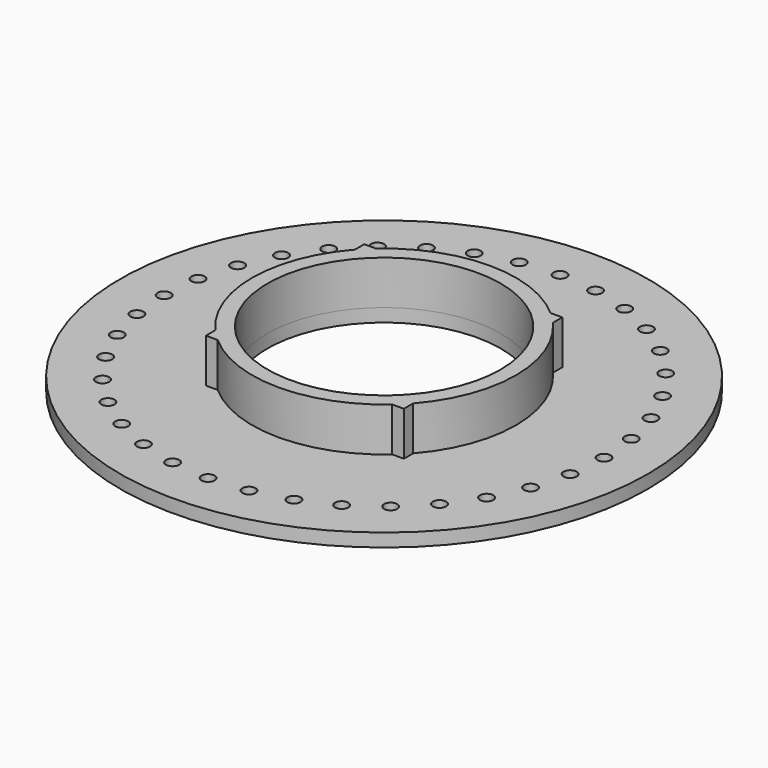
from build123d import *

# Parameters (mm, degrees)
F0_R     = 60
F0_R_2   = 1.5
F1_DEPTH = 3
F2_R     = 26.5
F3_DEPTH = 25
F4_R     = 30
F4_R_2   = 26.5
F5_DEPTH = 10
F7_DEPTH = 10


with BuildPart() as f1:
    # F0 (on Top) → F1 (new body)
    with BuildSketch(Plane.XY):
        Circle(F0_R)
        with Locations((-32.1393804843, -38.3022221559)):
            Circle(F0_R_2, mode=Mode.SUBTRACT)
        with Locations((-38.3022221559, -32.1393804843)):
            Circle(F0_R_2, mode=Mode.SUBTRACT)
        with Locations((-17.1010071663, -46.9846310393)):
            Circle(F0_R_2, mode=Mode.SUBTRACT)
        with Locations((-8.6824088833, -49.2403876506)):
            Circle(F0_R_2, mode=Mode.SUBTRACT)
        with Locations((-25, -43.3012701892)):
            Circle(F0_R_2, mode=Mode.SUBTRACT)
        with Locations((-46.9846310393, -17.1010071663)):
            Circle(F0_R_2, mode=Mode.SUBTRACT)
        with Locations((-43.3012701892, -25)):
            Circle(F0_R_2, mode=Mode.SUBTRACT)
        with Locations((-49.2403876506, -8.6824088833)):
            Circle(F0_R_2, mode=Mode.SUBTRACT)
        with Locations((0, -50)):
            Circle(F0_R_2, mode=Mode.SUBTRACT)
        with Locations((8.6824088833, -49.2403876506)):
            Circle(F0_R_2, mode=Mode.SUBTRACT)
        with Locations((17.1010071663, -46.9846310393)):
            Circle(F0_R_2, mode=Mode.SUBTRACT)
        with Locations((25, -43.3012701892)):
            Circle(F0_R_2, mode=Mode.SUBTRACT)
        with Locations((32.1393804843, -38.3022221559)):
            Circle(F0_R_2, mode=Mode.SUBTRACT)
        with Locations((38.3022221559, -32.1393804843)):
            Circle(F0_R_2, mode=Mode.SUBTRACT)
        with Locations((43.3012701892, -25)):
            Circle(F0_R_2, mode=Mode.SUBTRACT)
        with Locations((46.9846310393, -17.1010071663)):
            Circle(F0_R_2, mode=Mode.SUBTRACT)
        with Locations((49.2403876506, -8.6824088833)):
            Circle(F0_R_2, mode=Mode.SUBTRACT)
        with Locations((-50, 0)):
            Circle(F0_R_2, mode=Mode.SUBTRACT)
        with Locations((-49.2403876506, 8.6824088833)):
            Circle(F0_R_2, mode=Mode.SUBTRACT)
        with Locations((-46.9846310393, 17.1010071663)):
            Circle(F0_R_2, mode=Mode.SUBTRACT)
        with Locations((-43.3012701892, 25)):
            Circle(F0_R_2, mode=Mode.SUBTRACT)
        with Locations((-38.3022221559, 32.1393804843)):
            Circle(F0_R_2, mode=Mode.SUBTRACT)
        with Locations((-32.1393804843, 38.3022221559)):
            Circle(F0_R_2, mode=Mode.SUBTRACT)
        with Locations((-25, 43.3012701892)):
            Circle(F0_R_2, mode=Mode.SUBTRACT)
        with Locations((-17.1010071663, 46.9846310393)):
            Circle(F0_R_2, mode=Mode.SUBTRACT)
        with Locations((-8.6824088833, 49.2403876506)):
            Circle(F0_R_2, mode=Mode.SUBTRACT)
        with Locations((50, 0)):
            Circle(F0_R_2, mode=Mode.SUBTRACT)
        with Locations((49.2403876506, 8.6824088833)):
            Circle(F0_R_2, mode=Mode.SUBTRACT)
        with Locations((43.3012701892, 25)):
            Circle(F0_R_2, mode=Mode.SUBTRACT)
        with Locations((46.9846310393, 17.1010071663)):
            Circle(F0_R_2, mode=Mode.SUBTRACT)
        with Locations((25, 43.3012701892)):
            Circle(F0_R_2, mode=Mode.SUBTRACT)
        with Locations((0, 50)):
            Circle(F0_R_2, mode=Mode.SUBTRACT)
        with Locations((8.6824088833, 49.2403876506)):
            Circle(F0_R_2, mode=Mode.SUBTRACT)
        with Locations((17.1010071663, 46.9846310393)):
            Circle(F0_R_2, mode=Mode.SUBTRACT)
        with Locations((38.3022221559, 32.1393804843)):
            Circle(F0_R_2, mode=Mode.SUBTRACT)
        with Locations((32.1393804843, 38.3022221559)):
            Circle(F0_R_2, mode=Mode.SUBTRACT)
    extrude(amount=F1_DEPTH)

    # F2 (on face) → F3 (cut)
    with BuildSketch(Plane.XY.offset(3)):
        Circle(F2_R)
    extrude(amount=-F3_DEPTH, mode=Mode.SUBTRACT)

    # F4 (on face) → F5 (join)
    with BuildSketch(Plane.XY.offset(3)):
        Circle(F4_R)
        Circle(F4_R_2, mode=Mode.SUBTRACT)
    extrude(amount=F5_DEPTH)

    # F6 (on face) → F7 (join)
    with BuildSketch(Plane.XY.offset(3)):
        with BuildLine():
            ThreePointArc((-19.843134833, -22.5), (-21.2132034356, -21.2132034356), (-22.5, -19.843134833))
            Line((-22.5, -19.843134833), (-22.5, -22.5))
            Line((-22.5, -22.5), (-19.843134833, -22.5))
        make_face()
        with BuildLine():
            Line((22.5, -22.5), (22.5, -19.843134833))
            ThreePointArc((22.5, -19.843134833), (21.2132034356, -21.2132034356), (19.843134833, -22.5))
            Line((19.843134833, -22.5), (22.5, -22.5))
        make_face()
        with BuildLine():
            Line((22.5, 19.843134833), (22.5, 22.5))
            Line((22.5, 22.5), (19.843134833, 22.5))
            ThreePointArc((19.843134833, 22.5), (21.2132034356, 21.2132034356), (22.5, 19.843134833))
        make_face()
        with BuildLine():
            ThreePointArc((-22.5, 19.843134833), (-21.2132034356, 21.2132034356), (-19.843134833, 22.5))
            Line((-19.843134833, 22.5), (-22.5, 22.5))
            Line((-22.5, 22.5), (-22.5, 19.843134833))
        make_face()
    extrude(amount=F7_DEPTH)


solid = f1.part
